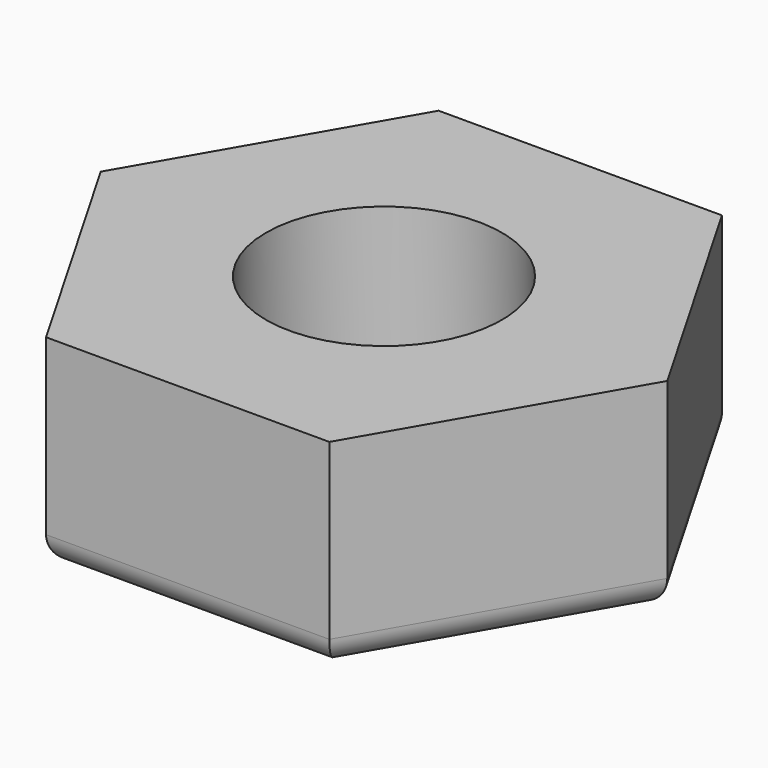
from build123d import *

# Parameters (mm, degrees)
F1_DEPTH       = 1.085
F3_D           = 2.54
F3_CSINK_D     = 3.4
F3_CSINK_ANGLE = 90
F4_R           = 0.3


with BuildPart() as f1:
    # F0 (on Top) → F1 (new body, symmetric)
    with BuildSketch(Plane.XY):
        Polygon((1.524205, -2.64), (3.048409, 0), (1.524205, 2.64), (-1.524205, 2.64), (-3.048409, 0), (-1.524205, -2.64), align=None)
    extrude(amount=F1_DEPTH, both=True)

    # F3 (through all)
    with Locations(Plane(origin=(0, 0, -1.085), x_dir=(1, 0, 0), z_dir=(0, 0, -1))):
        with Locations((0, 0)):
            CounterSinkHole(F3_D / 2, F3_CSINK_D / 2, counter_sink_angle=F3_CSINK_ANGLE)

    # F4
    f4_edges = [f1.edges().sort_by_distance(p)[0] for p in [
        (2.286307, 1.32, -1.085),
        (2.286307, -1.32, -1.085),
        (0, -2.64, -1.085),
        (-2.286307, -1.32, -1.085),
        (-2.286307, 1.32, -1.085),
        (0, 2.64, -1.085),
    ]]
    fillet(f4_edges, radius=F4_R)


solid = f1.part
